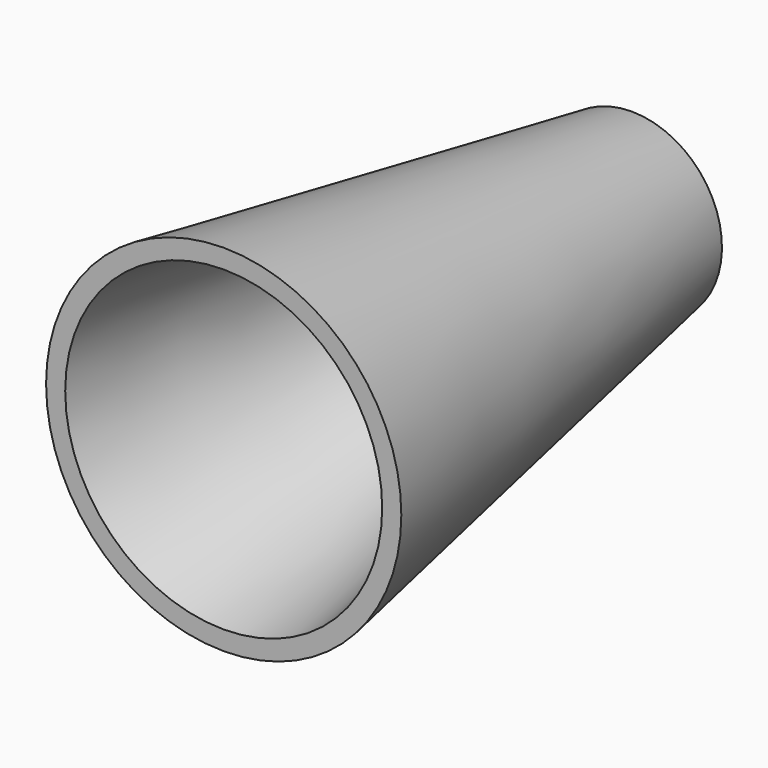
from build123d import *


with BuildPart() as f1:
    # F0 (on Right) → F1 (revolve)
    with BuildSketch(Plane.YZ):
        Polygon((0, 27.857143), (0, 24.857143), (75, 12), (80, 11.142857), (80, 14.142857), align=None)
        Polygon((80, 11.142857), (75, 12), (75, 2.25), (80, 2.25), align=None)
    revolve(axis=Axis((0, 40, 0), (0, 1, 0)))


solid = f1.part
